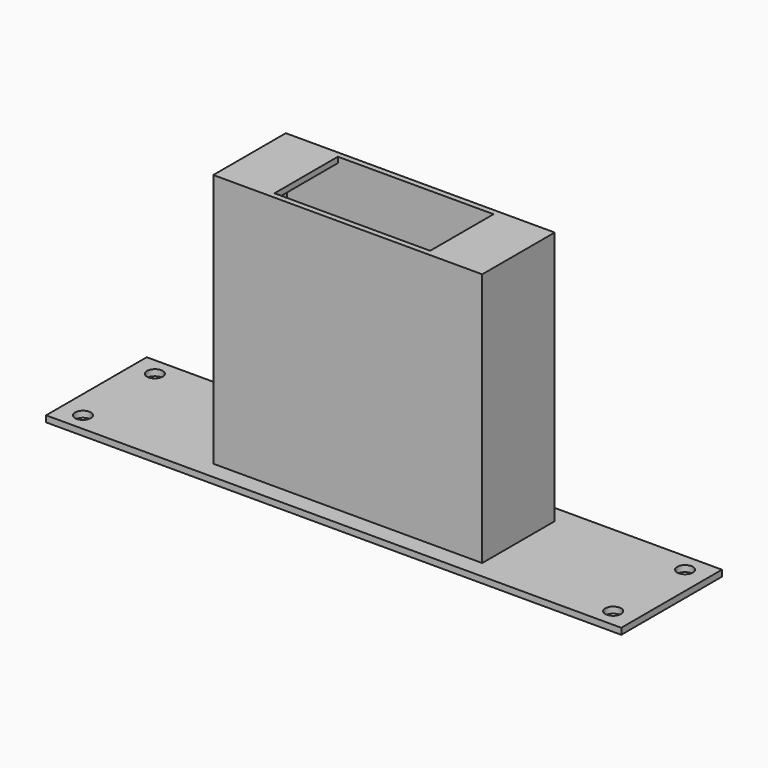
from build123d import *

# Parameters (mm, degrees)
SKETCH_W      = 203.2
SKETCH_H      = 44.45
SKETCH_R      = 2.775
SKETCH_W_2    = 91
SKETCH_H_2    = 28
PAD_DEPTH     = 2.2
SKETCH001_W   = 95
SKETCH001_H   = 32
SKETCH001_W_2 = 91
SKETCH001_H_2 = 28
PAD001_DEPTH  = 87.8
SKETCH002_W   = 95
SKETCH002_H   = 32
SKETCH002_W_2 = 55
SKETCH002_H_2 = 28
PAD002_DEPTH  = 2


with BuildPart() as part:
    # Sketch → Pad (new body)
    with BuildSketch(Plane.XY):
        Rectangle(SKETCH_W, SKETCH_H)
        with Locations((-93.6625, 15.875)):
            Circle(SKETCH_R, mode=Mode.SUBTRACT)
        with Locations((-93.6625, -15.875)):
            Circle(SKETCH_R, mode=Mode.SUBTRACT)
        with Locations((93.6625, 15.875)):
            Circle(SKETCH_R, mode=Mode.SUBTRACT)
        with Locations((93.6625, -15.875)):
            Circle(SKETCH_R, mode=Mode.SUBTRACT)
        Rectangle(SKETCH_W_2, SKETCH_H_2, mode=Mode.SUBTRACT)
    extrude(amount=PAD_DEPTH)

    # Sketch001 (on Face14 of Pad) → Pad001 (join)
    with BuildSketch(Plane.XY.offset(2.2)):
        Rectangle(SKETCH001_W, SKETCH001_H)
        Rectangle(SKETCH001_W_2, SKETCH001_H_2, mode=Mode.SUBTRACT)
    extrude(amount=PAD001_DEPTH)

    # Sketch002 (on Face23 of Pad001) → Pad002 (join)
    with BuildSketch(Plane.XY.offset(90)):
        Rectangle(SKETCH002_W, SKETCH002_H)
        Rectangle(SKETCH002_W_2, SKETCH002_H_2, mode=Mode.SUBTRACT)
    extrude(amount=PAD002_DEPTH)


solid = part.part
